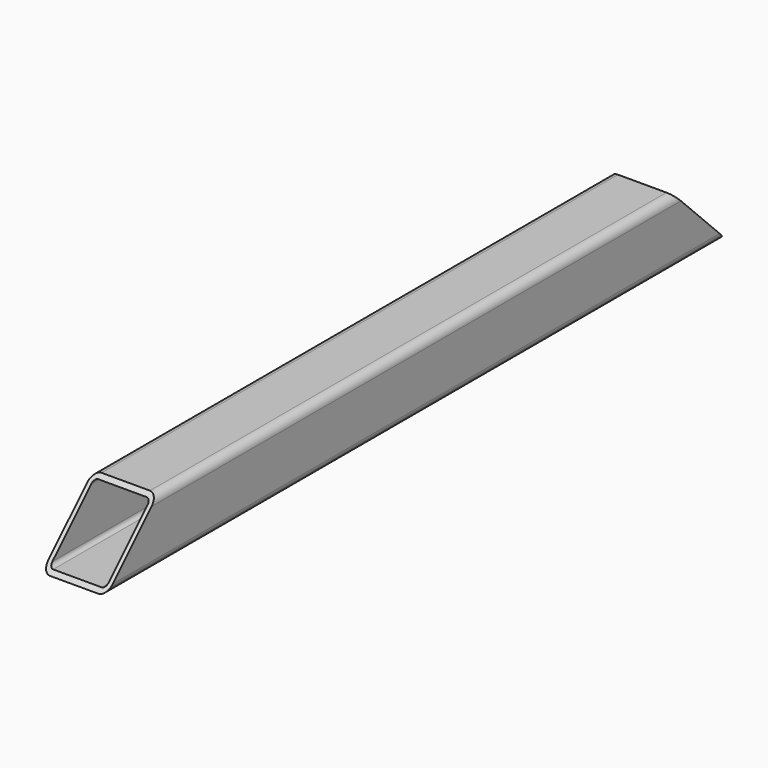
from build123d import *

# Parameters (mm, degrees)
F1_DEPTH = 609.6
F3_DEPTH = 50.801


with BuildPart() as f1:
    # F0 (on Front) → F1 (new body)
    with BuildSketch(Plane.XZ):
        with BuildLine():
            Line((-18.9612670034, -25.2729933709), (19.1387329966, -25.2729933709))
            ThreePointArc((19.1387329966, -25.2729933709), (23.6288610571, -23.4131214314), (25.4887329966, -18.9229933709))
            Line((25.4887329966, -18.9229933709), (25.4887329966, 19.1770066291))
            ThreePointArc((25.4887329966, 19.1770066291), (23.6288610571, 23.6671346896), (19.1387329966, 25.5270066291))
            Line((19.1387329966, 25.5270066291), (-18.9612670034, 25.5270066291))
            ThreePointArc((-18.9612670034, 25.5270066291), (-23.451395064, 23.6671346896), (-25.3112670034, 19.1770066291))
            Line((-25.3112670034, 19.1770066291), (-25.3112670034, -18.9229933709))
            ThreePointArc((-25.3112670034, -18.9229933709), (-23.451395064, -23.4131214314), (-18.9612670034, -25.2729933709))
        make_face()
        with BuildLine():
            Line((-18.9612670034, 22.3520066291), (19.1387329966, 22.3520066291))
            ThreePointArc((19.1387329966, 22.3520066291), (21.3837970268, 21.4220706594), (22.3137329966, 19.1770066291))
            Line((22.3137329966, 19.1770066291), (22.3137329966, -18.9229933709))
            ThreePointArc((22.3137329966, -18.9229933709), (21.3837970268, -21.1680574012), (19.1387329966, -22.0979933709))
            Line((19.1387329966, -22.0979933709), (-18.9612670034, -22.0979933709))
            ThreePointArc((-18.9612670034, -22.0979933709), (-21.2063310337, -21.1680574012), (-22.1362670034, -18.9229933709))
            Line((-22.1362670034, -18.9229933709), (-22.1362670034, 19.1770066291))
            ThreePointArc((-22.1362670034, 19.1770066291), (-21.2063310337, 21.4220706594), (-18.9612670034, 22.3520066291))
        make_face(mode=Mode.SUBTRACT)
    extrude(amount=F1_DEPTH)

    # F2 (on face) → F3 (cut, through all)
    with BuildSketch(Plane.YZ.offset(25.4887329966)):
        Polygon((-637.5276456785, 54.5883400366), (-637.5276456785, -53.2560676181), (-603.1945714313, -18.9229933709), (-609.6, -18.9229933709), (-609.6, 19.1770066291), (-565.0945714313, 19.1770066291), (-529.6832380238, 54.5883400366), align=None)
        Polygon((-609.6, -18.9229933709), (-603.1945714313, -18.9229933709), (-565.0945714313, 19.1770066291), (-609.6, 19.1770066291), align=None)
        Polygon((0, -18.9229933709), (-5.9980263665, -18.9229933709), (48.8678000444, -73.7888197817), (48.8678000444, 69.9899916479), (-94.9110113853, 69.9899916479), (-44.0980263665, 19.1770066291), (0, 19.1770066291), align=None)
        Polygon((-44.0980263665, 19.1770066291), (-5.9980263665, -18.9229933709), (0, -18.9229933709), (0, 19.1770066291), align=None)
    extrude(amount=-F3_DEPTH, mode=Mode.SUBTRACT)


solid = f1.part
